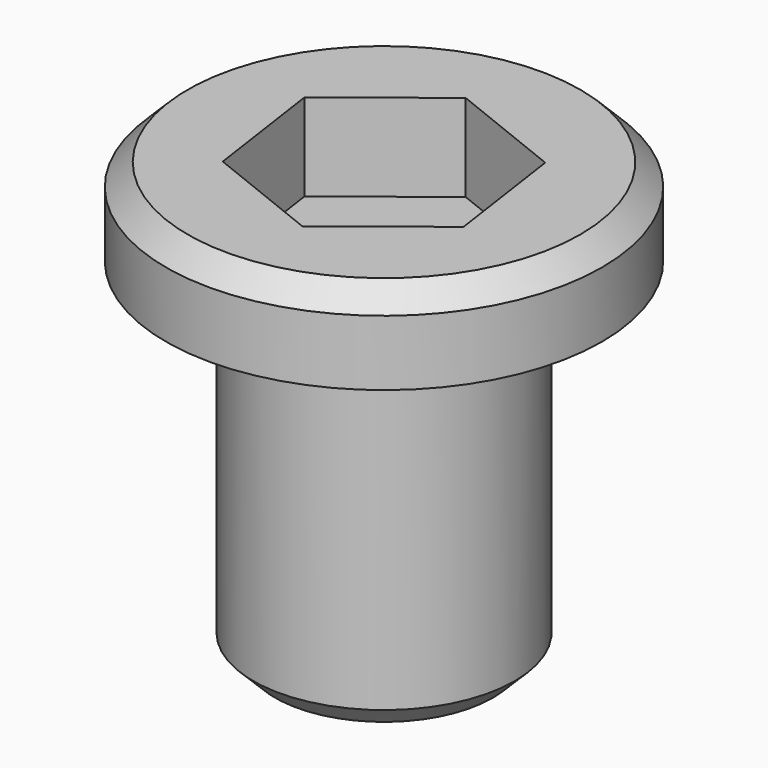
from build123d import *

# Parameters (mm, degrees)
F0_R     = 2.5
F1_DEPTH = 1
F2_R     = 1.5
F3_DEPTH = 4
F4_SIZE  = 0.25
F5_SIZE  = 0.25


with BuildPart() as f1:
    # F0 (on Top) → F1 (new body)
    with BuildSketch(Plane.XY):
        Circle(F0_R)
        Polygon((1.133814, 0.893196), (1.340438, -0.535313), (0.206624, -1.42851), (-1.133814, -0.893196), (-1.340438, 0.535313), (-0.206624, 1.42851), align=None, mode=Mode.SUBTRACT)
    extrude(amount=F1_DEPTH)

    # F2 (on face) → F3 (join)
    with BuildSketch(Plane(origin=(0, 0, 0), x_dir=(1, 0, 0), z_dir=(0, 0, -1))):
        Circle(F2_R)
    extrude(amount=F3_DEPTH)

    # F4
    f4_edges = [f1.edges().sort_by_distance(p)[0] for p in [
        (-2.5, 0, 1),
    ]]
    chamfer(f4_edges, length=F4_SIZE)

    # F5
    f5_edges = [f1.edges().sort_by_distance(p)[0] for p in [
        (-1.5, 0, -4),
    ]]
    chamfer(f5_edges, length=F5_SIZE)


solid = f1.part
